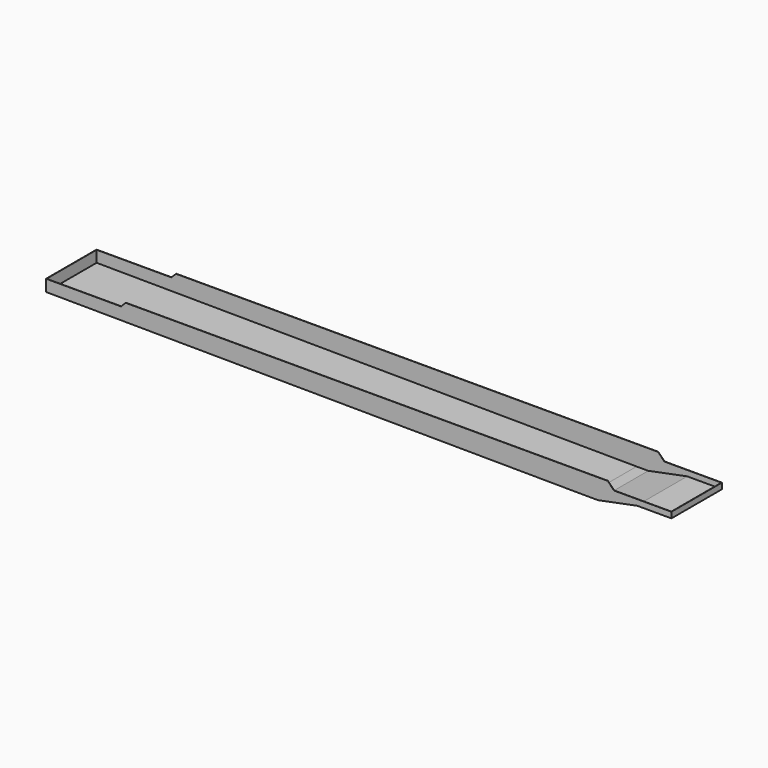
from build123d import *

# Parameters (mm, degrees)
EXTRUDE032_DEPTH = 402
EXTRUDE015_DEPTH = 405


with BuildPart() as extrude032:
    # Sketch033 → Extrude032 (new body, symmetric)
    with BuildSketch(Plane.XZ):
        Polygon((-597, -239), (362, -239), (422, -179), (6604, -179), (6687, -262), (7422, -262), (7422, -337), (6982, -337), (6482, -437), (6332, -437), (-597, -389), align=None)
    extrude(amount=EXTRUDE032_DEPTH, both=True)


with BuildPart() as extrude032_1:
    # Extrude032 placement: moved
    add(extrude032.part.moved(Location((0, 0, 3))))


with BuildPart() as cut:
    # Sketch023 → Extrude015 (new body, symmetric)
    with BuildSketch(Plane.XZ):
        Polygon((-600, -239), (362, -239), (422, -179), (6607, -179), (6690, -262), (7425, -262), (7425, -337), (6985, -337), (6485, -437), (6335, -437), (-600, -389), align=None)
    extrude(amount=EXTRUDE015_DEPTH, both=True)

    # Cut: cut Extrude032
    add(extrude032_1.part, mode=Mode.SUBTRACT)


solid = cut.part
